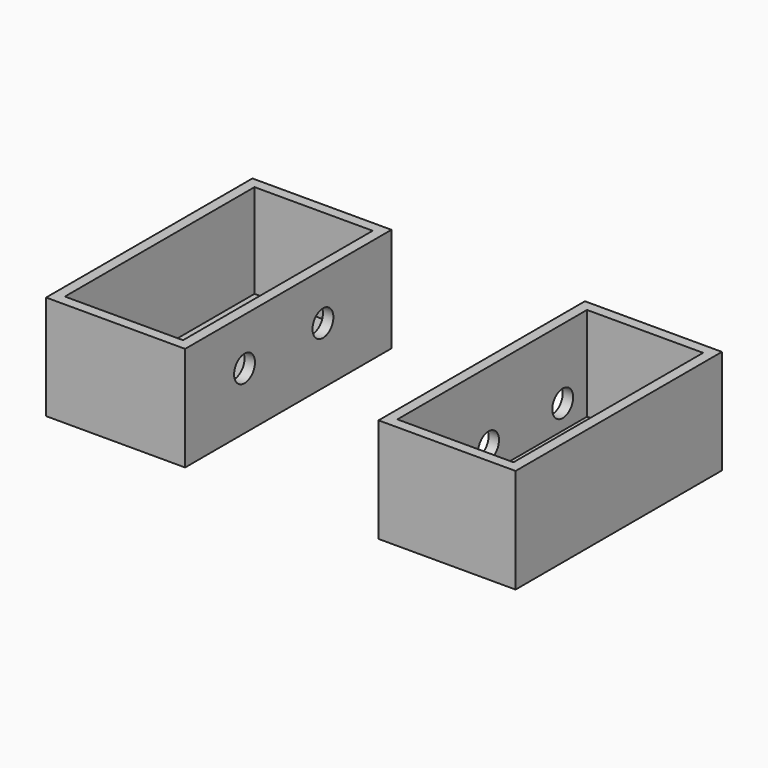
from build123d import *

# Parameters (mm, degrees)
F0_W     = 33.8173955679
F0_H     = 62.7337228507
F1_DEPTH = 25.4
F0_W_2   = 33.3272926509
F2_T     = -2.54
F4_D     = 6.35
F4_DEPTH = 12.7
F4_TIP   = 1.9077324654
F5_T     = -2.54
F7_D     = 6.35
F7_DEPTH = 12.7
F7_TIP   = 1.9077324654


with BuildPart() as f1:
    # F0 (on Top) → F1 (new body)
    with BuildSketch(Plane.XY):
        with Locations((-41.2915311754, -10.5373049155)):
            Rectangle(F0_W, F0_H)
    extrude(amount=F1_DEPTH)

    # F2
    f2_openings = [f1.faces().sort_by_distance(p)[0] for p in [
        (-41.291531, -10.537305, 25.4),
    ]]
    offset(amount=F2_T, openings=f2_openings)

    # F4
    with Locations(Plane.YZ.offset(-24.3828333914)):
        with Locations((-23.842105642, 13.876426965), (0, 13.876426965)):
            Hole(F4_D / 2, depth=F4_DEPTH)
            with Locations((0, 0, -(F4_DEPTH + F4_TIP / 2))):  # 118° drill point
                Cone(0, F4_D / 2, F4_TIP, mode=Mode.SUBTRACT)


with BuildPart() as f1b:
    # F0 (on Top) → F1, piece 2 (new body)
    with BuildSketch(Plane.XY):
        with Locations((39.331106469, -10.5373049155)):
            Rectangle(F0_W_2, F0_H)
    extrude(amount=F1_DEPTH)

    # F5
    f5_openings = [f1b.faces().sort_by_distance(p)[0] for p in [
        (39.331106, -10.537305, 25.4),
    ]]
    offset(amount=F5_T, openings=f5_openings)

    # F7 (one way)
    with BuildSketch(Plane.YZ.offset(25.2074601436)):
        with Locations((-11.6400457919, 8.4086805582), (10.9048858285, 8.4086805582)):
            Circle(F7_D / 2)
    extrude(amount=-F7_DEPTH, mode=Mode.SUBTRACT)
    with Locations(Plane.YZ.offset(25.2074601436)):
        with Locations((-11.6400457919, 8.4086805582), (10.9048858285, 8.4086805582)):
            with Locations((0, 0, -(F7_DEPTH + F7_TIP / 2))):  # 118° drill point
                Cone(0, F7_D / 2, F7_TIP, mode=Mode.SUBTRACT)


solid = Compound([f1.part, f1b.part])
